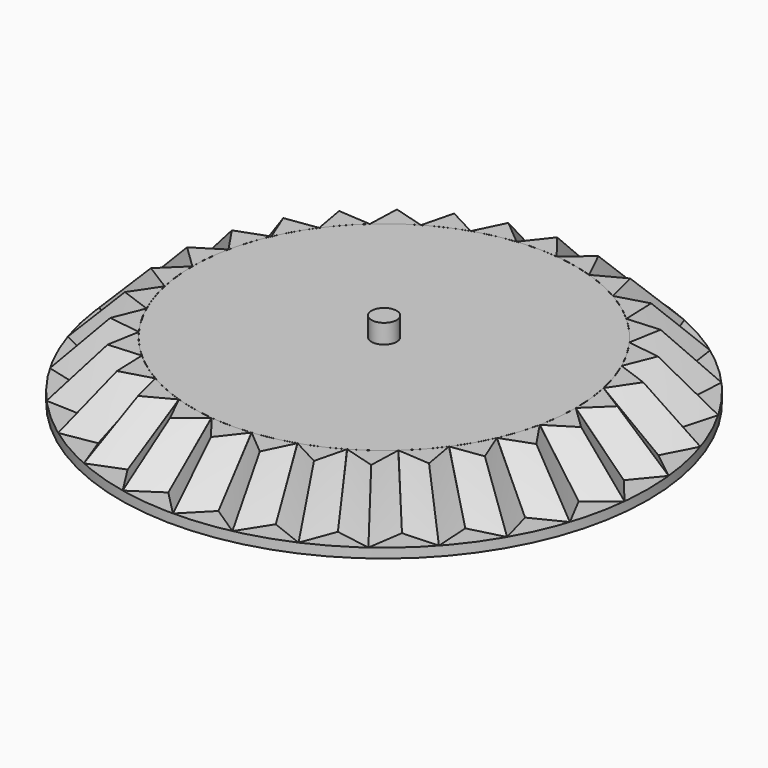
from build123d import *

# Parameters (mm, degrees)
F0_R      = 75
F1_DEPTH  = 15
F1_TAPER  = 45
F6_COUNT  = 30
F7_R      = 82.5880519923
F8_DEPTH  = 3
F9_R      = 3.95
F10_DEPTH = 6


with BuildPart() as f1:
    # F0 (on Top) → F1 (new body)
    with BuildSketch(Plane.XY):
        Circle(F0_R)
    extrude(amount=F1_DEPTH, taper=F1_TAPER)

    # F9 (on face) → F10 (join)
    with BuildSketch(Plane.XY.offset(15)):
        Circle(F9_R)
    extrude(amount=F10_DEPTH)


with BuildPart() as f4:
    # F2 (on Top) → F4 section 0
    with BuildSketch(Plane.XY):
        Polygon((7.85, 74.5880519923), (0, 82.5880519923), (-7.85, 74.5880519923), align=None)
    # F3 (on face) → F4 section 1
    with BuildSketch(Plane.XY.offset(15)):
        with BuildLine():
            Line((6.25, 59.6735913114), (0, 67.6735913114))
            Line((0, 67.6735913114), (-6.25, 59.6735913114))
            ThreePointArc((-6.25, 59.6735913114), (0, 60), (6.25, 59.6735913114))
        make_face()
    loft()


with BuildPart() as f6_1:
    # F6: instance of F4
    add(f4.part.rotate(Axis((0, 0, 15.4740558937), (0, 0, -1)), 1 * 360 / F6_COUNT))


with BuildPart() as f6_2:
    # F6: instance of F4
    add(f4.part.rotate(Axis((0, 0, 15.4740558937), (0, 0, -1)), 2 * 360 / F6_COUNT))


with BuildPart() as f6_3:
    # F6: instance of F4
    add(f4.part.rotate(Axis((0, 0, 15.4740558937), (0, 0, -1)), 3 * 360 / F6_COUNT))


with BuildPart() as f6_4:
    # F6: instance of F4
    add(f4.part.rotate(Axis((0, 0, 15.4740558937), (0, 0, -1)), 4 * 360 / F6_COUNT))


with BuildPart() as f6_5:
    # F6: instance of F4
    add(f4.part.rotate(Axis((0, 0, 15.4740558937), (0, 0, -1)), 5 * 360 / F6_COUNT))


with BuildPart() as f6_6:
    # F6: instance of F4
    add(f4.part.rotate(Axis((0, 0, 15.4740558937), (0, 0, -1)), 6 * 360 / F6_COUNT))


with BuildPart() as f6_7:
    # F6: instance of F4
    add(f4.part.rotate(Axis((0, 0, 15.4740558937), (0, 0, -1)), 7 * 360 / F6_COUNT))


with BuildPart() as f6_8:
    # F6: instance of F4
    add(f4.part.rotate(Axis((0, 0, 15.4740558937), (0, 0, -1)), 8 * 360 / F6_COUNT))


with BuildPart() as f6_9:
    # F6: instance of F4
    add(f4.part.rotate(Axis((0, 0, 15.4740558937), (0, 0, -1)), 9 * 360 / F6_COUNT))


with BuildPart() as f6_10:
    # F6: instance of F4
    add(f4.part.rotate(Axis((0, 0, 15.4740558937), (0, 0, -1)), 10 * 360 / F6_COUNT))


with BuildPart() as f6_11:
    # F6: instance of F4
    add(f4.part.rotate(Axis((0, 0, 15.4740558937), (0, 0, -1)), 11 * 360 / F6_COUNT))


with BuildPart() as f6_12:
    # F6: instance of F4
    add(f4.part.rotate(Axis((0, 0, 15.4740558937), (0, 0, -1)), 12 * 360 / F6_COUNT))


with BuildPart() as f6_13:
    # F6: instance of F4
    add(f4.part.rotate(Axis((0, 0, 15.4740558937), (0, 0, -1)), 13 * 360 / F6_COUNT))


with BuildPart() as f6_14:
    # F6: instance of F4
    add(f4.part.rotate(Axis((0, 0, 15.4740558937), (0, 0, -1)), 14 * 360 / F6_COUNT))


with BuildPart() as f6_15:
    # F6: instance of F4
    add(f4.part.rotate(Axis((0, 0, 15.4740558937), (0, 0, -1)), 15 * 360 / F6_COUNT))


with BuildPart() as f6_16:
    # F6: instance of F4
    add(f4.part.rotate(Axis((0, 0, 15.4740558937), (0, 0, -1)), 16 * 360 / F6_COUNT))


with BuildPart() as f6_17:
    # F6: instance of F4
    add(f4.part.rotate(Axis((0, 0, 15.4740558937), (0, 0, -1)), 17 * 360 / F6_COUNT))


with BuildPart() as f6_18:
    # F6: instance of F4
    add(f4.part.rotate(Axis((0, 0, 15.4740558937), (0, 0, -1)), 18 * 360 / F6_COUNT))


with BuildPart() as f6_19:
    # F6: instance of F4
    add(f4.part.rotate(Axis((0, 0, 15.4740558937), (0, 0, -1)), 19 * 360 / F6_COUNT))


with BuildPart() as f6_20:
    # F6: instance of F4
    add(f4.part.rotate(Axis((0, 0, 15.4740558937), (0, 0, -1)), 20 * 360 / F6_COUNT))


with BuildPart() as f6_21:
    # F6: instance of F4
    add(f4.part.rotate(Axis((0, 0, 15.4740558937), (0, 0, -1)), 21 * 360 / F6_COUNT))


with BuildPart() as f6_22:
    # F6: instance of F4
    add(f4.part.rotate(Axis((0, 0, 15.4740558937), (0, 0, -1)), 22 * 360 / F6_COUNT))


with BuildPart() as f6_23:
    # F6: instance of F4
    add(f4.part.rotate(Axis((0, 0, 15.4740558937), (0, 0, -1)), 23 * 360 / F6_COUNT))


with BuildPart() as f6_24:
    # F6: instance of F4
    add(f4.part.rotate(Axis((0, 0, 15.4740558937), (0, 0, -1)), 24 * 360 / F6_COUNT))


with BuildPart() as f6_25:
    # F6: instance of F4
    add(f4.part.rotate(Axis((0, 0, 15.4740558937), (0, 0, -1)), 25 * 360 / F6_COUNT))


with BuildPart() as f6_26:
    # F6: instance of F4
    add(f4.part.rotate(Axis((0, 0, 15.4740558937), (0, 0, -1)), 26 * 360 / F6_COUNT))


with BuildPart() as f6_27:
    # F6: instance of F4
    add(f4.part.rotate(Axis((0, 0, 15.4740558937), (0, 0, -1)), 27 * 360 / F6_COUNT))


with BuildPart() as f6_28:
    # F6: instance of F4
    add(f4.part.rotate(Axis((0, 0, 15.4740558937), (0, 0, -1)), 28 * 360 / F6_COUNT))


with BuildPart() as f6_29:
    # F6: instance of F4
    add(f4.part.rotate(Axis((0, 0, 15.4740558937), (0, 0, -1)), 29 * 360 / F6_COUNT))


with BuildPart() as f8:
    # F7 (on face) → F8 (new body)
    with BuildSketch(Plane(origin=(0, 0, 0), x_dir=(1, 0, 0), z_dir=(0, 0, -1))):
        Circle(F7_R)
    extrude(amount=F8_DEPTH)


solid = Compound([f1.part, f4.part, f6_1.part, f6_2.part, f6_3.part, f6_4.part, f6_5.part, f6_6.part, f6_7.part, f6_8.part, f6_9.part, f6_10.part, f6_11.part, f6_12.part, f6_13.part, f6_14.part, f6_15.part, f6_16.part, f6_17.part, f6_18.part, f6_19.part, f6_20.part, f6_21.part, f6_22.part, f6_23.part, f6_24.part, f6_25.part, f6_26.part, f6_27.part, f6_28.part, f6_29.part, f8.part])
